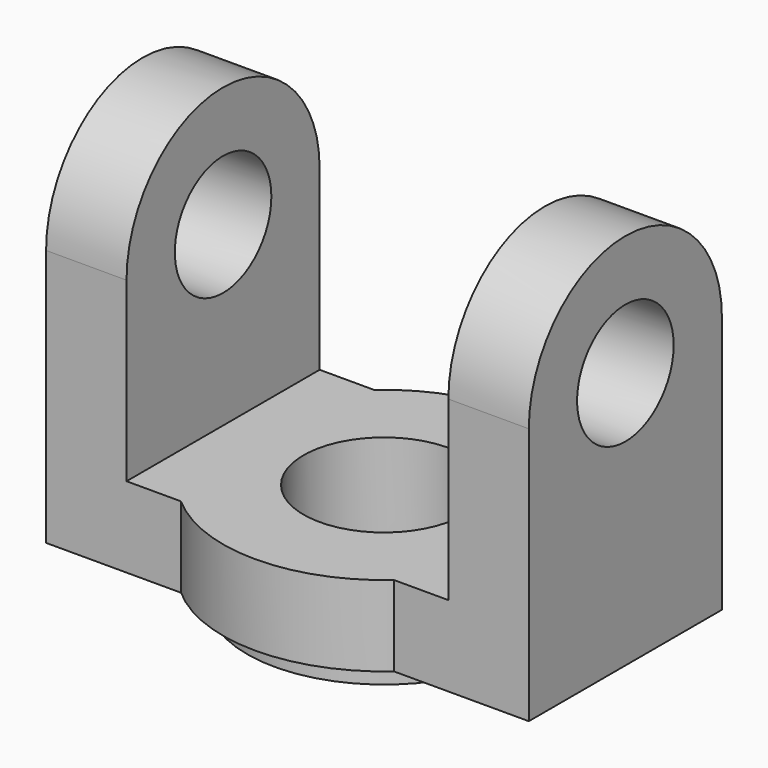
from build123d import *

# Parameters (mm, degrees)
F0_R      = 17
F1_DEPTH  = 3
F3_DEPTH  = 10
F4_R      = 10
F5_DEPTH  = 13.001
F6_W      = 10
F6_H      = 30
F7_DEPTH  = 40
F8_R      = 7.5
F9_DEPTH  = 60.001
F11_DEPTH = 60.001


with BuildPart() as f1:
    # F0 (on Top) → F1 (new body)
    with BuildSketch(Plane.XY):
        Circle(F0_R)
    extrude(amount=F1_DEPTH)

    # F2 (on face) → F3 (join)
    with BuildSketch(Plane.XY.offset(3)):
        with BuildLine():
            ThreePointArc((13.2287565553, -15), (18.2287565553, -8.2287565553), (20, 0))
            ThreePointArc((20, 0), (18.2287565553, 8.2287565553), (13.2287565553, 15))
            Line((13.2287565553, 15), (-13.2287565553, 15))
            ThreePointArc((-13.2287565553, 15), (-20, 0), (-13.2287565553, -15))
            Line((-13.2287565553, -15), (13.2287565553, -15))
        make_face()
        with BuildLine():
            ThreePointArc((13.2287565553, 15), (18.2287565553, 8.2287565553), (20, 0))
            ThreePointArc((20, 0), (18.2287565553, -8.2287565553), (13.2287565553, -15))
            Line((13.2287565553, -15), (30, -15))
            Line((30, -15), (30, 15))
            Line((30, 15), (13.2287565553, 15))
        make_face()
        with BuildLine():
            Line((-13.2287565553, 15), (13.2287565553, 15))
            ThreePointArc((13.2287565553, 15), (0, 20), (-13.2287565553, 15))
        make_face()
        with BuildLine():
            ThreePointArc((-13.2287565553, -15), (0, -20), (13.2287565553, -15))
            Line((13.2287565553, -15), (-13.2287565553, -15))
        make_face()
        with BuildLine():
            ThreePointArc((-13.2287565553, -15), (-20, 0), (-13.2287565553, 15))
            Line((-13.2287565553, 15), (-30, 15))
            Line((-30, 15), (-30, -15))
            Line((-30, -15), (-13.2287565553, -15))
        make_face()
    extrude(amount=F3_DEPTH)

    # F4 (on face) → F5 (cut, through all)
    with BuildSketch(Plane.XY.offset(13)):
        Circle(F4_R)
    extrude(amount=-F5_DEPTH, mode=Mode.SUBTRACT)

    # F6 (on face) → F7 (join)
    with BuildSketch(Plane.XY.offset(13)):
        with Locations((-25, 0)):
            Rectangle(F6_W, F6_H)
        with Locations((25, 0)):
            Rectangle(F6_W, F6_H)
    extrude(amount=F7_DEPTH)

    # F8 (on face) → F9 (cut, through all)
    with BuildSketch(Plane.YZ.offset(30)):
        with Locations((0, 35)):
            Circle(F8_R)
    extrude(amount=-F9_DEPTH, mode=Mode.SUBTRACT)

    # F10 (on face) → F11 (cut, through all)
    with BuildSketch(Plane.YZ.offset(30)):
        with BuildLine():
            ThreePointArc((-15, 35), (0, 50), (15, 35))
            Line((15, 35), (15, 53))
            Line((15, 53), (-15, 53))
            Line((-15, 53), (-15, 35))
        make_face()
    extrude(amount=-F11_DEPTH, mode=Mode.SUBTRACT)


solid = f1.part
